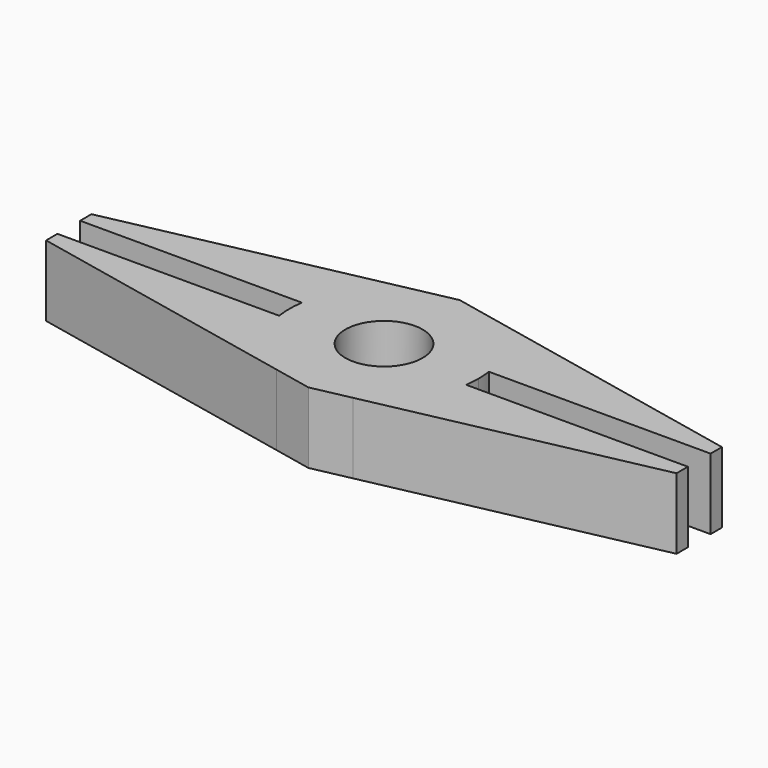
from build123d import *

# Parameters (mm, degrees)
F0_R     = 6.223
F1_DEPTH = 11.43


with BuildPart() as f1:
    # F0 (on Top) → F1 (new body)
    with BuildSketch(Plane.XY):
        with BuildLine():
            ThreePointArc((15.067575, -2.286), (15.196833, -1.146247), (15.24, 0))
            ThreePointArc((15.24, 0), (15.196833, 1.146247), (15.067575, 2.286))
            ThreePointArc((15.067575, 2.286), (12.098201, 9.267747), (6.130447, 13.952606))
            Line((6.130447, 13.952606), (0, 15.24))
            Line((0, 15.24), (-6.130447, 13.952606))
            ThreePointArc((-6.130447, 13.952606), (-12.098201, 9.267747), (-15.067575, 2.286))
            ThreePointArc((-15.067575, 2.286), (-15.24, 0), (-15.067575, -2.286))
            ThreePointArc((-15.067575, -2.286), (-12.098201, -9.267747), (-6.130447, -13.952606))
            Line((-6.130447, -13.952606), (0, -15.24))
            Line((0, -15.24), (6.130447, -13.952606))
            ThreePointArc((6.130447, -13.952606), (12.098201, -9.267747), (15.067575, -2.286))
        make_face()
        Circle(F0_R, mode=Mode.SUBTRACT)
        with BuildLine():
            ThreePointArc((6.130447, 13.952606), (12.098201, 9.267747), (15.067575, 2.286))
            Line((15.067575, 2.286), (50.8, 2.286))
            Line((50.8, 2.286), (50.8, 4.572))
            Line((50.8, 4.572), (6.130447, 13.952606))
        make_face()
        with BuildLine():
            Line((50.8, -2.286), (15.067575, -2.286))
            ThreePointArc((15.067575, -2.286), (12.098201, -9.267747), (6.130447, -13.952606))
            Line((6.130447, -13.952606), (50.8, -4.572))
            Line((50.8, -4.572), (50.8, -2.286))
        make_face()
        with BuildLine():
            Line((-50.8, -4.572), (-6.130447, -13.952606))
            ThreePointArc((-6.130447, -13.952606), (-12.098201, -9.267747), (-15.067575, -2.286))
            Line((-15.067575, -2.286), (-50.8, -2.286))
            Line((-50.8, -2.286), (-50.8, -4.572))
        make_face()
        with BuildLine():
            ThreePointArc((-15.067575, 2.286), (-12.098201, 9.267747), (-6.130447, 13.952606))
            Line((-6.130447, 13.952606), (-50.8, 4.572))
            Line((-50.8, 4.572), (-50.8, 2.286))
            Line((-50.8, 2.286), (-15.067575, 2.286))
        make_face()
    extrude(amount=F1_DEPTH)


solid = f1.part
